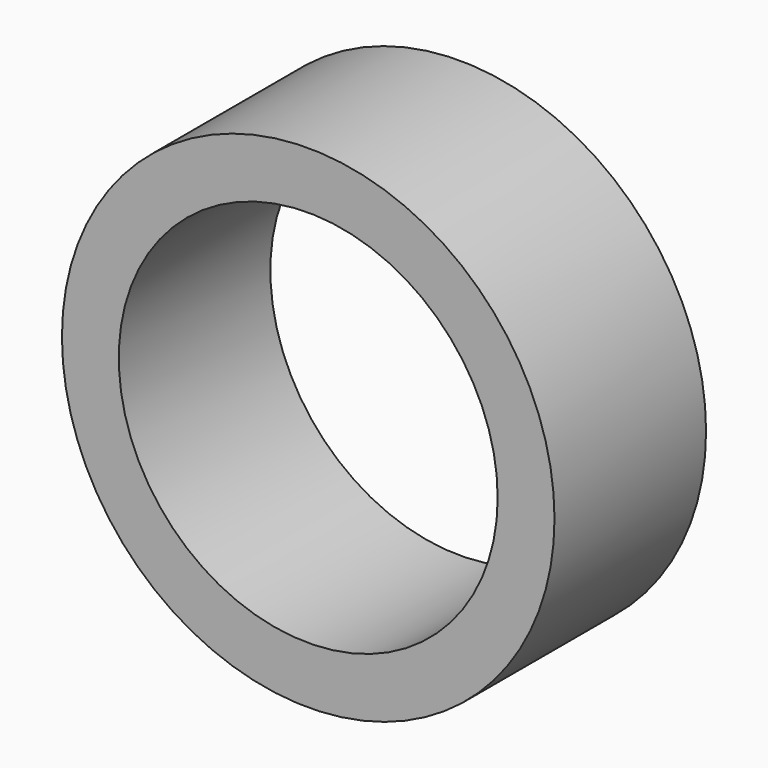
from build123d import *

# Parameters (mm, degrees)
CYLINDER005_R          = 5
CYLINDER005_DEPTH      = 5
CYLINDER005_ROLL_ANGLE = 90
CYLINDER006_R          = 6.5
CYLINDER006_DEPTH      = 5
CYLINDER006_ROLL_ANGLE = 90


with BuildPart() as cylinder005:
    # Cylinder005 → Cylinder005 (new body)
    with BuildSketch(Plane.XY):
        Circle(CYLINDER005_R)
    extrude(amount=CYLINDER005_DEPTH)


with BuildPart() as cylinder005_1:
    # Cylinder005 roll: moved
    add(cylinder005.part.rotate(Axis((0, 0, 0), (1, 0, 0)), CYLINDER005_ROLL_ANGLE))


with BuildPart() as cylinder005_2:
    # Cylinder005 placement: moved
    add(cylinder005_1.part.moved(Location((-5.4, 46, 0))))


with BuildPart() as cut001:
    # Cylinder006 → Cylinder006 (new body)
    with BuildSketch(Plane.XY):
        Circle(CYLINDER006_R)
    extrude(amount=CYLINDER006_DEPTH)


with BuildPart() as cut001_1:
    # Cylinder006 roll: moved
    add(cut001.part.rotate(Axis((0, 0, 0), (1, 0, 0)), CYLINDER006_ROLL_ANGLE))


with BuildPart() as cut001_2:
    # Cylinder006 placement: moved
    add(cut001_1.part.moved(Location((-5.4, 46, 0))))

    # Cut001: cut Cylinder005
    add(cylinder005_2.part, mode=Mode.SUBTRACT)


solid = cut001_2.part
